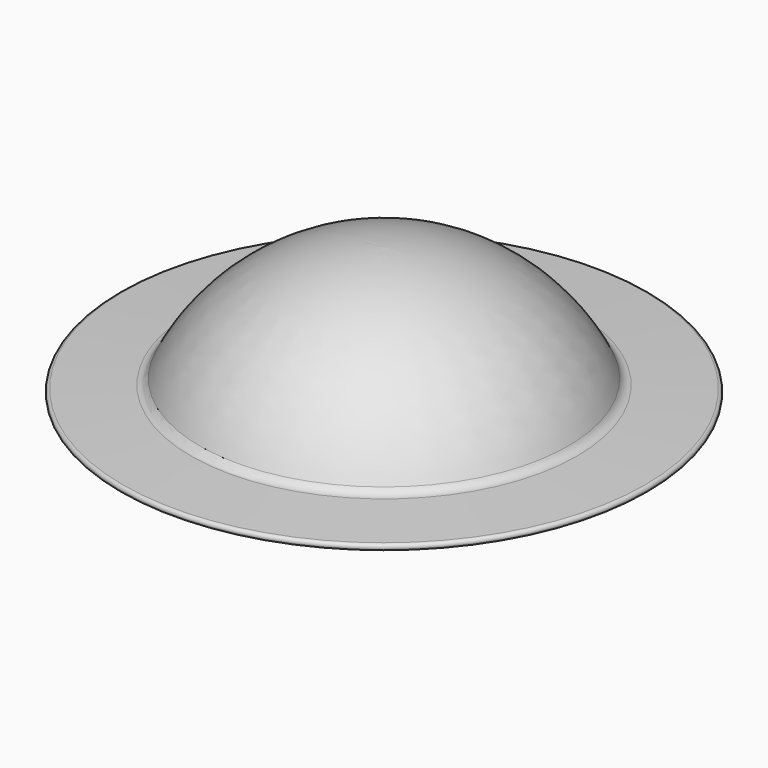
from build123d import *


with BuildPart() as f1:
    # F0 (on Front) → F1 (revolve)
    with BuildSketch(Plane.XZ):
        with BuildLine():
            Line((-46.96759, 2.28698), (-63.535092, 1.523192))
            ThreePointArc((-63.535092, 1.523192), (-64.261798, 0.744449), (-63.5, 0))
            Line((-63.5, 0), (0, 0))
            Line((0, 0), (0, 31.75))
            ThreePointArc((0, 31.75), (-26.424777, 24.163207), (-44.800133, 3.713891))
            ThreePointArc((-44.800133, 3.713891), (-45.687887, 2.702754), (-46.96759, 2.28698))
        make_face()
    revolve(axis=Axis((0, 0, 31.645977), (0, 0, 1)))


solid = f1.part
